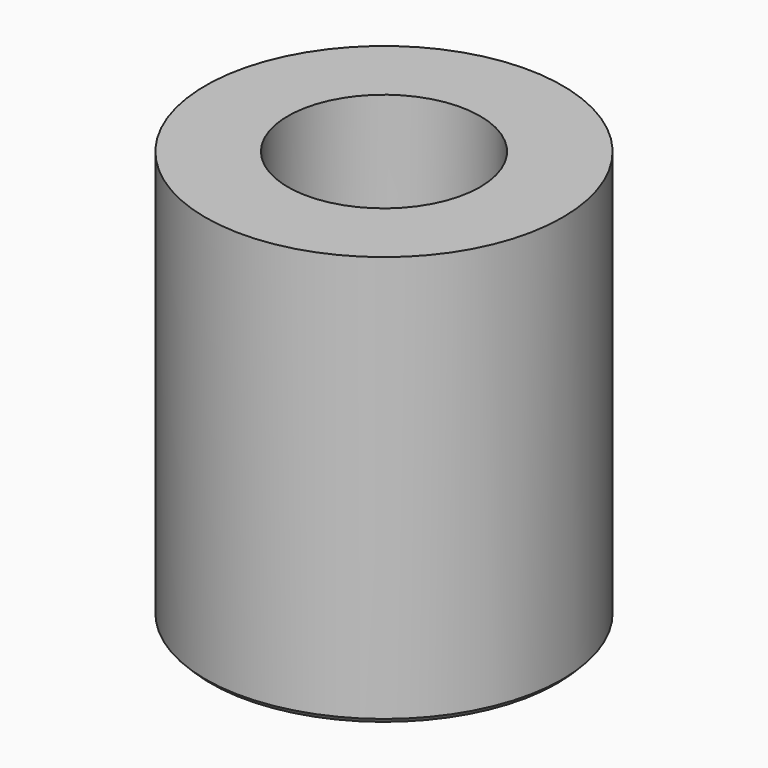
from build123d import *

# Parameters (mm, degrees)
SKETCH_R        = 13
SKETCH_R_2      = 8.1
PAD_DEPTH       = 10
SKETCH001_R     = 13
SKETCH001_R_2   = 7
PAD001_DEPTH    = 20
CHAMFER_SIZE    = 0.4
CHAMFER001_SIZE = 0.4


with BuildPart() as part:
    # Sketch → Pad (new body)
    with BuildSketch(Plane.XY):
        Circle(SKETCH_R)
        Circle(SKETCH_R_2, mode=Mode.SUBTRACT)
    extrude(amount=PAD_DEPTH)

    # Sketch001 (on Face4 of Pad) → Pad001 (join)
    with BuildSketch(Plane.XY.offset(10)):
        Circle(SKETCH001_R)
        Circle(SKETCH001_R_2, mode=Mode.SUBTRACT)
    extrude(amount=PAD001_DEPTH)

    # Chamfer
    chamfer_edges = [part.edges().sort_by_distance(p)[0] for p in [
        (-8.1, 0, 0),
    ]]
    chamfer(chamfer_edges, length=CHAMFER_SIZE)

    # Chamfer001
    chamfer001_edges = [part.edges().sort_by_distance(p)[0] for p in [
        (-13, 0, 0),
    ]]
    chamfer(chamfer001_edges, length=CHAMFER001_SIZE)


solid = part.part
